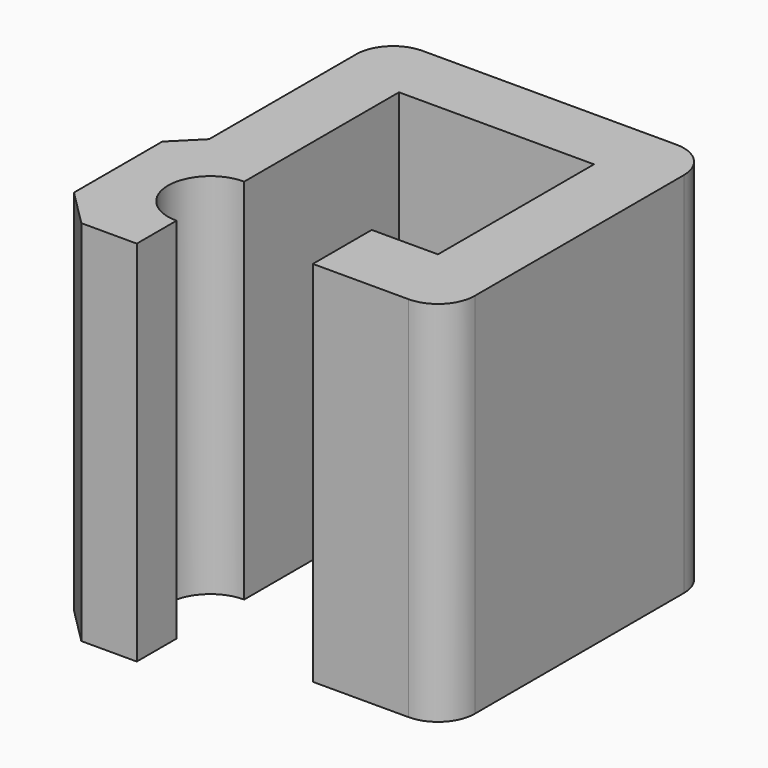
from build123d import *

# Parameters (mm, degrees)
F1_DEPTH = 10
F2_SIZE  = 1
F3_R     = 1


with BuildPart() as f1:
    # F0 (on Top) → F1 (new body)
    with BuildSketch(Plane.XY):
        with BuildLine():
            Line((-2.507107, 0), (0, 0))
            Line((0, 0), (0, 1.35))
            ThreePointArc((0, 1.35), (-1.15, 2.5), (0, 3.65))
            Line((0, 3.65), (0, 8.907107))
            Line((0, 8.907107), (5.3, 8.907107))
            Line((5.3, 8.907107), (5.3, 3.607107))
            Line((5.3, 3.607107), (3.5, 3.607107))
            Line((3.5, 3.607107), (3.5, 1.607107))
            Line((3.5, 1.607107), (7.1, 1.607107))
            Line((7.1, 1.607107), (7.1, 10.707107))
            Line((7.1, 10.707107), (-1.8, 10.707107))
            Line((-1.8, 10.707107), (-1.8, 4.707107))
            Line((-1.8, 4.707107), (-2.507107, 4))
            Line((-2.507107, 4), (-2.507107, 0))
        make_face()
    extrude(amount=F1_DEPTH)

    # F2
    f2_edges = [f1.edges().sort_by_distance(p)[0] for p in [
        (-2.507107, 0, 5),
    ]]
    chamfer(f2_edges, length=F2_SIZE)

    # F3
    f3_edges = [f1.edges().sort_by_distance(p)[0] for p in [
        (7.1, 1.607107, 5),
        (7.1, 10.707107, 5),
        (-1.8, 10.707107, 5),
    ]]
    fillet(f3_edges, radius=F3_R)


solid = f1.part
